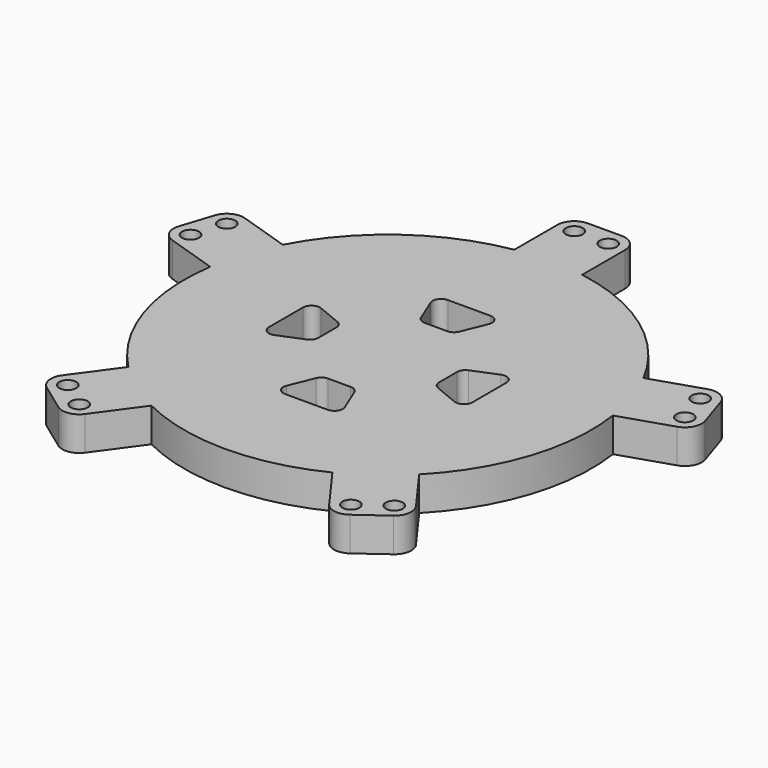
from build123d import *

# Parameters (mm, degrees)
F0_R     = 1.5875
F1_DEPTH = 6.3754
F3_DEPTH = 6.3764


with BuildPart() as f1:
    # F0 (on Top) → F1 (new body)
    with BuildSketch(Plane.XY):
        with BuildLine():
            Line((-6.35, 47.625), (-6.35, 37.567107))
            ThreePointArc((-6.35, 37.567107), (-22.394618, 30.823547), (-33.766184, 17.648083))
            Line((-33.766184, 17.648083), (-43.331809, 20.756143))
            ThreePointArc((-43.331809, 20.756143), (-45.754357, 20.565485), (-47.332542, 18.717668))
            Line((-47.332542, 18.717668), (-49.2948, 12.678459))
            ThreePointArc((-49.2948, 12.678459), (-49.104141, 10.25591), (-47.256325, 8.677725))
            Line((-47.256325, 8.677725), (-37.690699, 5.569665))
            ThreePointArc((-37.690699, 5.569665), (-36.235253, -11.773547), (-27.218649, -26.659991))
            Line((-27.218649, -26.659991), (-33.130531, -34.796998))
            ThreePointArc((-33.130531, -34.796998), (-33.697812, -37.159896), (-32.42812, -39.231845))
            Line((-32.42812, -39.231845), (-27.290862, -42.964281))
            ThreePointArc((-27.290862, -42.964281), (-24.927964, -43.531563), (-22.856015, -42.261871))
            Line((-22.856015, -42.261871), (-16.944133, -34.124864))
            ThreePointArc((-16.944133, -34.124864), (0, -38.1), (16.944133, -34.124864))
            Line((16.944133, -34.124864), (22.856015, -42.261871))
            ThreePointArc((22.856015, -42.261871), (24.927964, -43.531563), (27.290862, -42.964281))
            Line((27.290862, -42.964281), (32.42812, -39.231845))
            ThreePointArc((32.42812, -39.231845), (33.697812, -37.159896), (33.130531, -34.796998))
            Line((33.130531, -34.796998), (27.218649, -26.659991))
            ThreePointArc((27.218649, -26.659991), (36.235253, -11.773547), (37.690699, 5.569665))
            Line((37.690699, 5.569665), (47.256325, 8.677725))
            ThreePointArc((47.256325, 8.677725), (49.104141, 10.25591), (49.2948, 12.678459))
            Line((49.2948, 12.678459), (47.332542, 18.717668))
            ThreePointArc((47.332542, 18.717668), (45.754357, 20.565485), (43.331809, 20.756143))
            Line((43.331809, 20.756143), (33.766184, 17.648083))
            ThreePointArc((33.766184, 17.648083), (22.394618, 30.823547), (6.35, 37.567107))
            Line((6.35, 37.567107), (6.35, 47.625))
            ThreePointArc((6.35, 47.625), (5.420064, 49.870064), (3.175, 50.8))
            Line((3.175, 50.8), (-3.175, 50.8))
            ThreePointArc((-3.175, 50.8), (-5.420064, 49.870064), (-6.35, 47.625))
        make_face()
        with Locations((-25.424644, -40.395653)):
            Circle(F0_R, mode=Mode.SUBTRACT)
        with Locations((-30.561902, -36.663216)):
            Circle(F0_R, mode=Mode.SUBTRACT)
        with Locations((25.424644, -40.395653)):
            Circle(F0_R, mode=Mode.SUBTRACT)
        with Locations((30.561902, -36.663216)):
            Circle(F0_R, mode=Mode.SUBTRACT)
        with Locations((-46.275196, 11.69733)):
            Circle(F0_R, mode=Mode.SUBTRACT)
        with Locations((-44.312938, 17.736539)):
            Circle(F0_R, mode=Mode.SUBTRACT)
        with Locations((-3.175, 47.625)):
            Circle(F0_R, mode=Mode.SUBTRACT)
        with Locations((46.275196, 11.69733)):
            Circle(F0_R, mode=Mode.SUBTRACT)
        with Locations((44.312938, 17.736539)):
            Circle(F0_R, mode=Mode.SUBTRACT)
        with Locations((3.175, 47.625)):
            Circle(F0_R, mode=Mode.SUBTRACT)
    extrude(amount=F1_DEPTH)

    # F2 (on face) → F3 (cut, through all)
    with BuildSketch(Plane.XY.offset(6.3754)):
        with BuildLine():
            Line((3.984938, 19.05), (0, 19.05))
            Line((0, 19.05), (-3.984938, 19.05))
            ThreePointArc((-3.984938, 19.05), (-5.303035, 18.347246), (-5.454143, 16.861174))
            Line((-5.454143, 16.861174), (-3.578628, 12.278771))
            ThreePointArc((-3.578628, 12.278771), (-2.994169, 11.562), (-2.109423, 11.292597))
            Line((-2.109423, 11.292597), (0, 11.292597))
            Line((0, 11.292597), (2.109423, 11.292597))
            ThreePointArc((2.109423, 11.292597), (2.994169, 11.562), (3.578628, 12.278771))
            Line((3.578628, 12.278771), (5.454143, 16.861174))
            ThreePointArc((5.454143, 16.861174), (5.303035, 18.347246), (3.984938, 19.05))
        make_face()
        with BuildLine():
            Line((19.05, -3.984938), (19.05, 0))
            Line((19.05, 0), (19.05, 3.984938))
            ThreePointArc((19.05, 3.984938), (18.347246, 5.303035), (16.861174, 5.454143))
            Line((16.861174, 5.454143), (12.278771, 3.578628))
            ThreePointArc((12.278771, 3.578628), (11.562, 2.994169), (11.292597, 2.109423))
            Line((11.292597, 2.109423), (11.292597, 0))
            Line((11.292597, 0), (11.292597, -2.109423))
            ThreePointArc((11.292597, -2.109423), (11.562, -2.994169), (12.278771, -3.578628))
            Line((12.278771, -3.578628), (16.861174, -5.454143))
            ThreePointArc((16.861174, -5.454143), (18.347246, -5.303035), (19.05, -3.984938))
        make_face()
        with BuildLine():
            Line((-3.984938, -19.05), (0, -19.05))
            Line((0, -19.05), (3.984938, -19.05))
            ThreePointArc((3.984938, -19.05), (5.303035, -18.347246), (5.454143, -16.861174))
            Line((5.454143, -16.861174), (3.578628, -12.278771))
            ThreePointArc((3.578628, -12.278771), (2.994169, -11.562), (2.109423, -11.292597))
            Line((2.109423, -11.292597), (0, -11.292597))
            Line((0, -11.292597), (-2.109423, -11.292597))
            ThreePointArc((-2.109423, -11.292597), (-2.994169, -11.562), (-3.578628, -12.278771))
            Line((-3.578628, -12.278771), (-5.454143, -16.861174))
            ThreePointArc((-5.454143, -16.861174), (-5.303035, -18.347246), (-3.984938, -19.05))
        make_face()
        with BuildLine():
            Line((-19.05, 3.984938), (-19.05, 0))
            Line((-19.05, 0), (-19.05, -3.984938))
            ThreePointArc((-19.05, -3.984938), (-18.347246, -5.303035), (-16.861174, -5.454143))
            Line((-16.861174, -5.454143), (-12.278771, -3.578628))
            ThreePointArc((-12.278771, -3.578628), (-11.562, -2.994169), (-11.292597, -2.109423))
            Line((-11.292597, -2.109423), (-11.292597, 0))
            Line((-11.292597, 0), (-11.292597, 2.109423))
            ThreePointArc((-11.292597, 2.109423), (-11.562, 2.994169), (-12.278771, 3.578628))
            Line((-12.278771, 3.578628), (-16.861174, 5.454143))
            ThreePointArc((-16.861174, 5.454143), (-18.347246, 5.303035), (-19.05, 3.984938))
        make_face()
    extrude(amount=-F3_DEPTH, mode=Mode.SUBTRACT)


solid = f1.part
